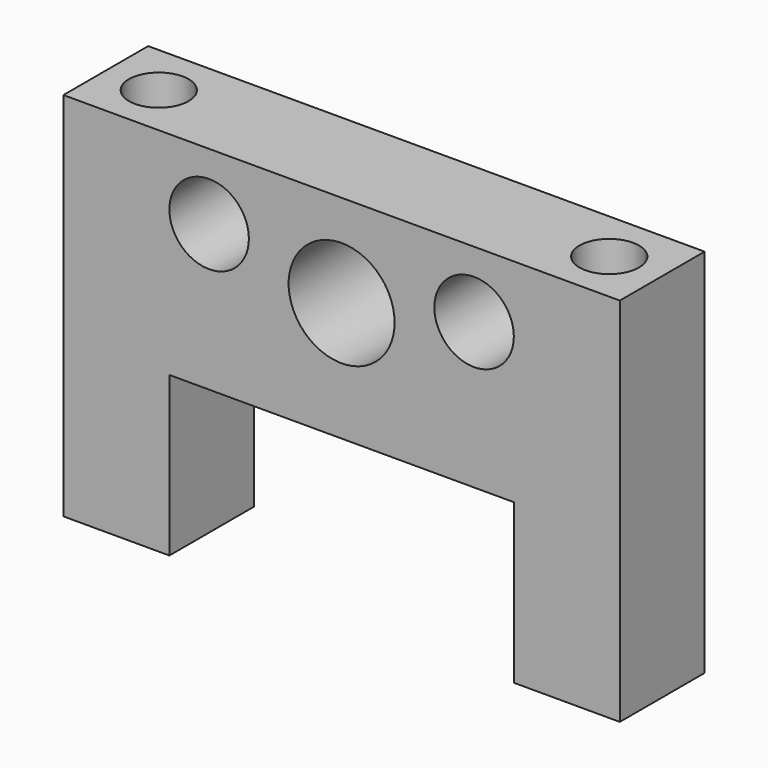
from build123d import *

# Parameters (mm, degrees)
F0_R     = 3
F0_R_2   = 4
F1_DEPTH = 8
F2_R     = 2.25
F3_DEPTH = 28.001


with BuildPart() as f1:
    # F0 (on Front) → F1 (new body)
    with BuildSketch(Plane.XZ):
        Polygon((21, 14), (-21, 14), (-21, -14), (-13, -14), (-13, -2), (13, -2), (13, -14), (21, -14), align=None)
        with Locations((-10, 9)):
            Circle(F0_R, mode=Mode.SUBTRACT)
        with Locations((0, 7)):
            Circle(F0_R_2, mode=Mode.SUBTRACT)
        with Locations((10, 9)):
            Circle(F0_R, mode=Mode.SUBTRACT)
    extrude(amount=F1_DEPTH)

    # F2 (on face) → F3 (cut, through all)
    with BuildSketch(Plane.XY.offset(14)):
        with Locations((-17, -4)):
            Circle(F2_R)
        with Locations((17, -4)):
            Circle(F2_R)
    extrude(amount=-F3_DEPTH, mode=Mode.SUBTRACT)


solid = f1.part
